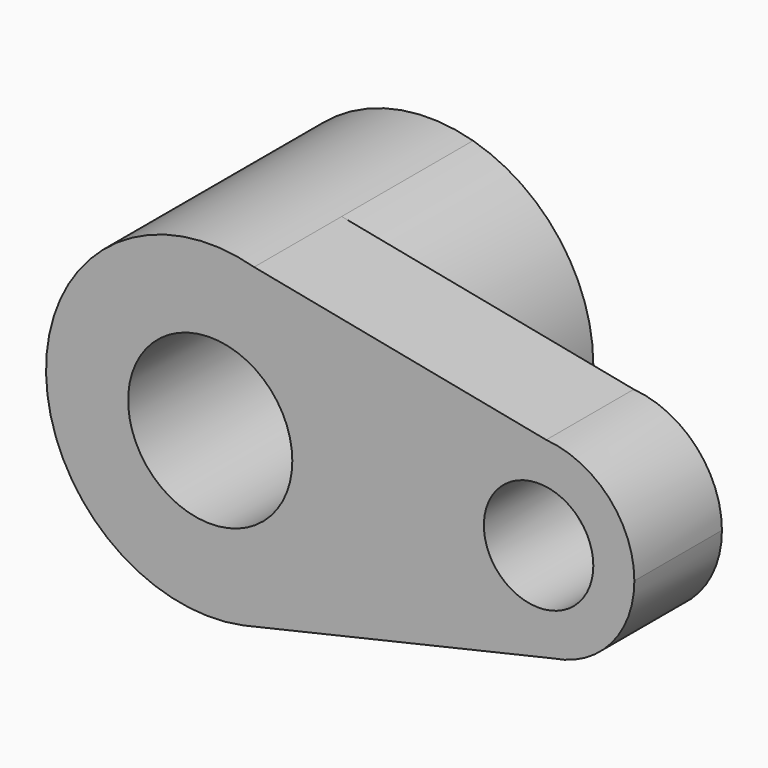
from build123d import *

# Parameters (mm, degrees)
F0_R     = 381
F0_R_2   = 254
F1_DEPTH = 508
F2_DEPTH = 762
F3_R     = 50.8
F4_R     = 25.4


with BuildPart() as f1:
    # F0 (on Front) → F1 (new body)
    with BuildSketch(Plane.XZ):
        with BuildLine():
            ThreePointArc((190.848011, -763.670872), (602.523935, -492.443187), (762, -25.957488))
            ThreePointArc((762, -25.957488), (606.573772, 435.249905), (203.700106, 708.311037))
            ThreePointArc((203.700106, 708.311037), (-761.549103, 0.252512), (152.735719, -772.493355))
            Line((152.735719, -772.493355), (190.848011, -763.670872))
        make_face()
        with Locations((0, -25.957488)):
            Circle(F0_R, mode=Mode.SUBTRACT)
        with BuildLine():
            ThreePointArc((203.700106, 708.311037), (606.573772, 435.249905), (762, -25.957488))
            ThreePointArc((762, -25.957488), (602.523935, -492.443187), (190.848011, -763.670872))
            Line((190.848011, -763.670872), (1592.727674, -439.154593))
            ThreePointArc((1592.727674, -439.154593), (1079.816248, -16.764383), (1559.430162, 443.085718))
            Line((1559.430162, 443.085718), (203.700106, 708.311037))
        make_face()
        with BuildLine():
            ThreePointArc((1968.5, 0), (1850.595282, 301.522423), (1559.430162, 443.085718))
            ThreePointArc((1559.430162, 443.085718), (1079.816248, -16.764383), (1592.727674, -439.154593))
            ThreePointArc((1592.727674, -439.154593), (1861.734882, -288.99031), (1968.5, 0))
        make_face()
        with Locations((1524, 0)):
            Circle(F0_R_2, mode=Mode.SUBTRACT)
    extrude(amount=F1_DEPTH)

    # F0 (on Front) → F2 (join)
    with BuildSketch(Plane.XZ):
        with BuildLine():
            ThreePointArc((190.848011, -763.670872), (602.523935, -492.443187), (762, -25.957488))
            ThreePointArc((762, -25.957488), (606.573772, 435.249905), (203.700106, 708.311037))
            ThreePointArc((203.700106, 708.311037), (-761.549103, 0.252512), (152.735719, -772.493355))
            Line((152.735719, -772.493355), (190.848011, -763.670872))
        make_face()
        with Locations((0, -25.957488)):
            Circle(F0_R, mode=Mode.SUBTRACT)
    extrude(amount=-F2_DEPTH)

    # F3
    f3_edges = [f1.edges().sort_by_distance(p)[0] for p in [
        (-381, 762, -25.957488),
    ]]
    fillet(f3_edges, radius=F3_R)

    # F4
    f4_edges = [f1.edges().sort_by_distance(p)[0] for p in [
        (1270, 0, 0),
    ]]
    fillet(f4_edges, radius=F4_R)


solid = f1.part
